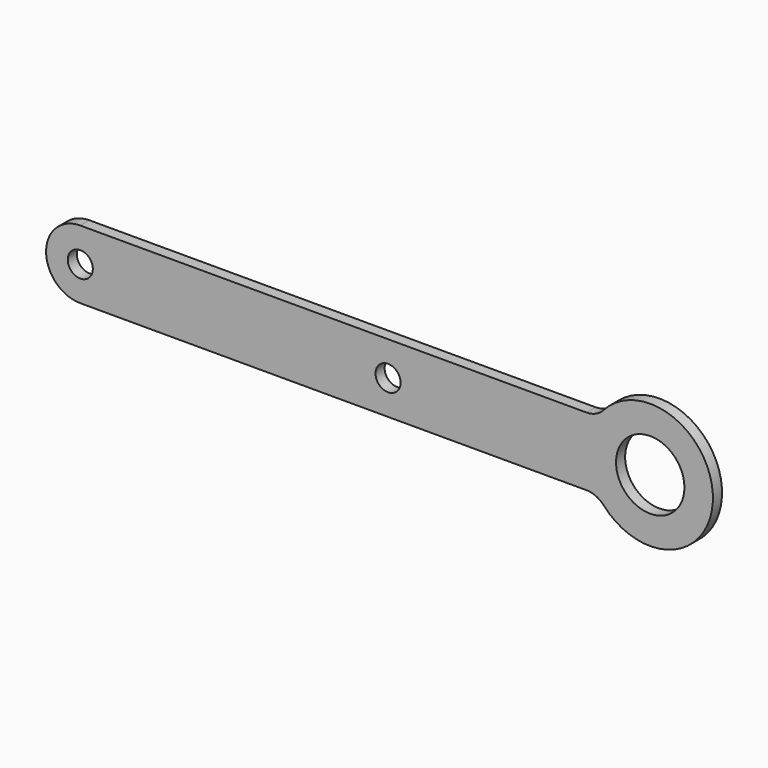
from build123d import *

# Parameters (mm, degrees)
F0_R     = 1.1
F0_R_2   = 3
F1_DEPTH = 1


with BuildPart() as f1:
    # F0 (on Front) → F1 (new body)
    with BuildSketch(Plane.XZ):
        with BuildLine():
            ThreePointArc((-5.59017, -3), (-4.773673, -3.174258), (-4.099458, -3.666667))
            ThreePointArc((-4.099458, -3.666667), (5.5, 0), (-4.099458, 3.666667))
            ThreePointArc((-4.099458, 3.666667), (-4.773673, 3.174258), (-5.59017, 3))
            Line((-5.59017, 3), (-50, 3))
            ThreePointArc((-50, 3), (-53, 0), (-50, -3))
            Line((-50, -3), (-5.59017, -3))
        make_face()
        with Locations((-50, 0)):
            Circle(F0_R, mode=Mode.SUBTRACT)
        with Locations((-23, 0)):
            Circle(F0_R, mode=Mode.SUBTRACT)
        Circle(F0_R_2, mode=Mode.SUBTRACT)
    extrude(amount=F1_DEPTH)


solid = f1.part
